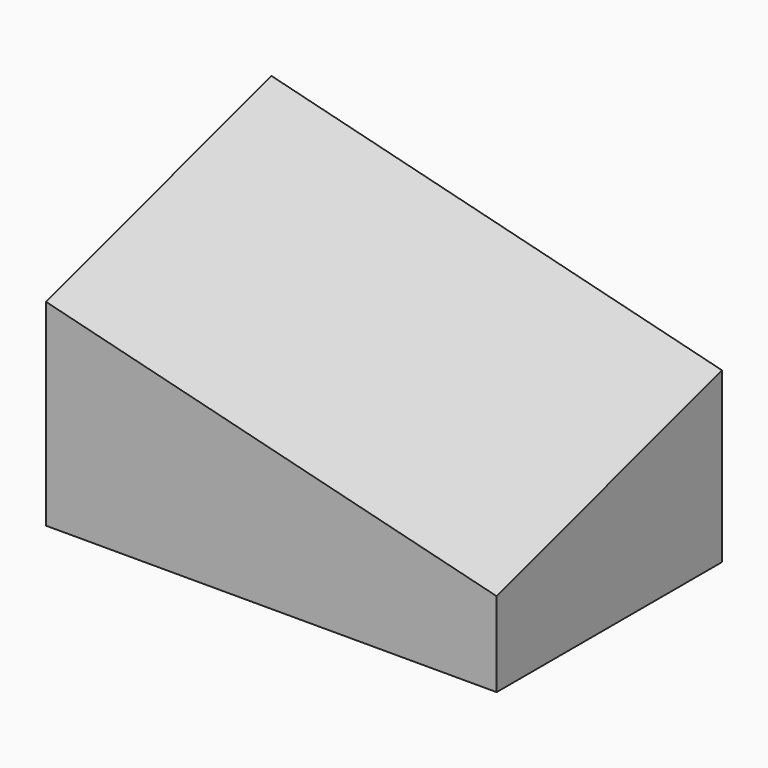
from build123d import *


with BuildPart() as f3:
    # F0 (on Front) → F3 section 0
    with BuildSketch(Plane.XZ):
        Polygon((-40, 0), (0, 0), (0, 7.5), (-40, 17.5), align=None)
    # F2 (on offset) → F3 section 1
    with BuildSketch(Plane.XZ.offset(-25)):
        Polygon((-40, 0), (0, 0), (0, 15), (-40, 25), align=None)
    loft()


solid = f3.part
